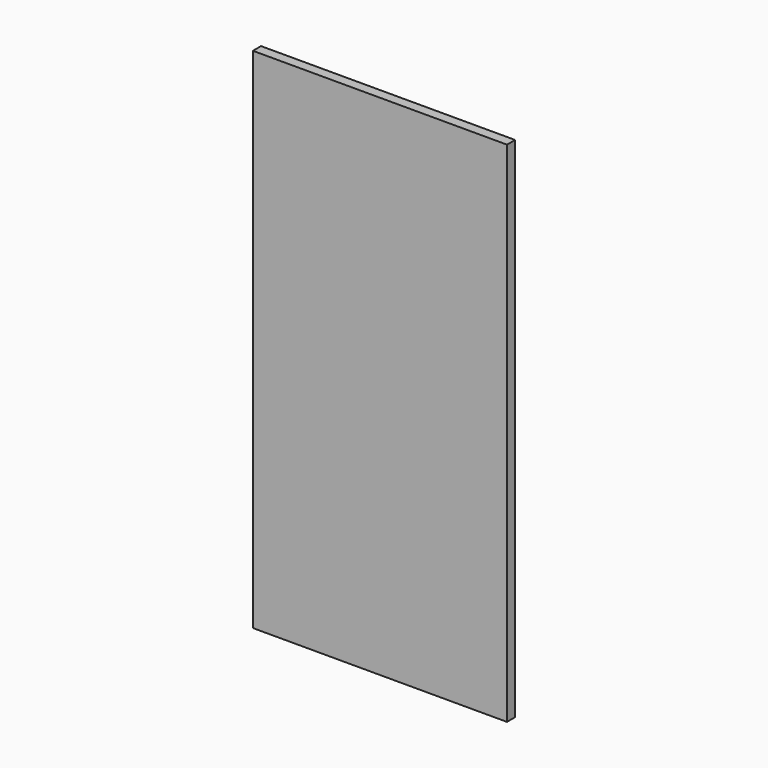
from build123d import *

# Parameters (mm, degrees)
F0_W     = 50
F0_H     = 100
F1_DEPTH = 2
F2_W     = 8
F2_H     = 20
F3_DEPTH = 10
F4_W     = 4
F4_H     = 36.223298
F5_DEPTH = 10


with BuildPart() as f1:
    # F0 (on Front) → F1 (new body)
    with BuildSketch(Plane.XZ):
        Rectangle(F0_W, F0_H)
    extrude(amount=F1_DEPTH)

    # F2 (on face) → F3 (join)
    with BuildSketch(Plane(origin=(0, 0, 0), x_dir=(-1, 0, 0), z_dir=(0, 1, 0))):
        Rectangle(F2_W, F2_H)
    extrude(amount=F3_DEPTH)

    # F4 (on face) → F5 (cut)
    with BuildSketch(Plane(origin=(0, 10, 0), x_dir=(-1, 0, 0), z_dir=(0, 1, 0))):
        Rectangle(F4_W, F4_H)
    extrude(amount=-F5_DEPTH, mode=Mode.SUBTRACT)


solid = f1.part
